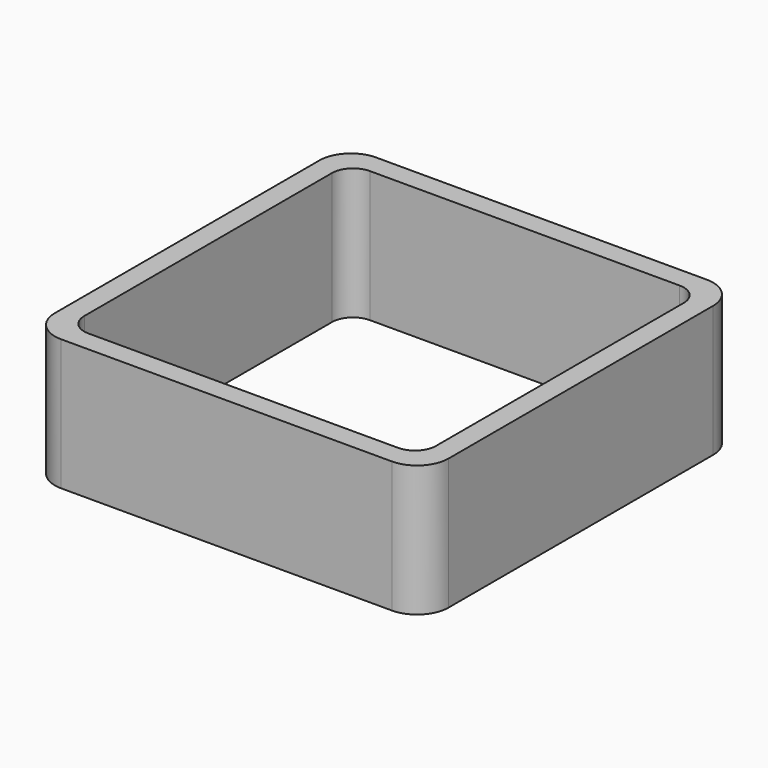
from build123d import *

# Parameters (mm, degrees)
EXTRUDE_DEPTH = 50


with BuildPart() as part:
    # Sketch → Extrude (new body)
    with BuildSketch(Plane.XY):
        with BuildLine():
            Line((-63, 75), (63, 75))
            ThreePointArc((75, 63), (71.485281, 71.485281), (63, 75))
            Line((75, 63), (75, -63))
            ThreePointArc((63, -75), (71.485281, -71.485281), (75, -63))
            Line((63, -75), (-63, -75))
            ThreePointArc((-75, -63), (-71.485281, -71.485281), (-63, -75))
            Line((-75, -63), (-75, 63))
            ThreePointArc((-63, 75), (-71.485281, 71.485281), (-75, 63))
        make_face()
        with BuildLine():
            Line((-59, 67), (59, 67))
            ThreePointArc((67, 59), (64.656854, 64.656854), (59, 67))
            Line((67, 59), (67, -59))
            ThreePointArc((59, -67), (64.656854, -64.656854), (67, -59))
            Line((59, -67), (-59, -67))
            ThreePointArc((-67, -59), (-64.656854, -64.656854), (-59, -67))
            Line((-67, -59), (-67, 59))
            ThreePointArc((-59, 67), (-64.656854, 64.656854), (-67, 59))
        make_face(mode=Mode.SUBTRACT)
    extrude(amount=EXTRUDE_DEPTH)


solid = part.part
